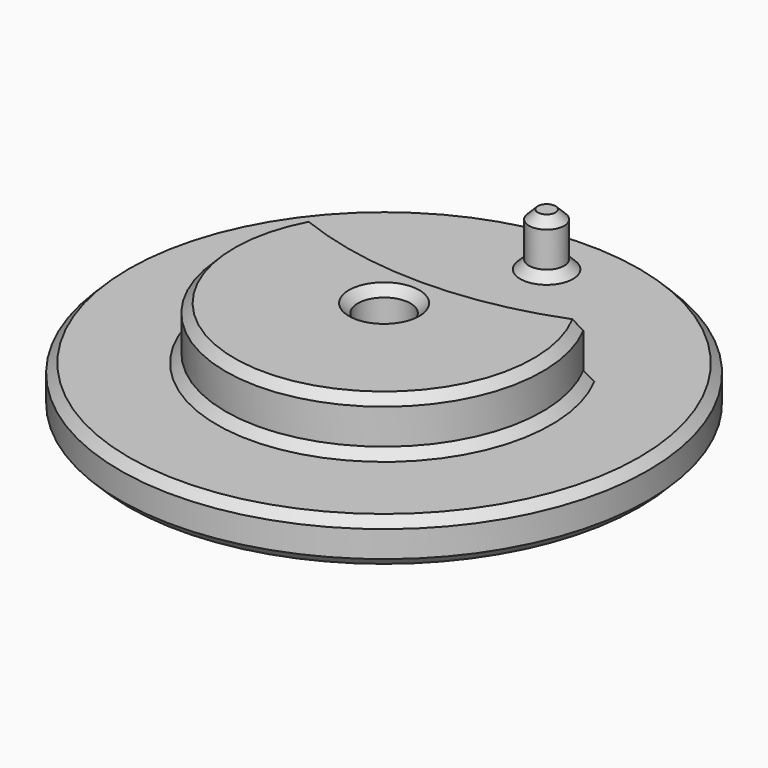
from build123d import *

# Parameters (mm, degrees)
SKETCH003_R          = 30
PAD001_DEPTH         = 5
SKETCH004_R          = 2
PAD002_DEPTH         = 6
SKETCH005_R          = 3
POCKET002_DEPTH      = 5.001
POCKET002_DEPTH_BACK = 6.001
CHAMFER002_SIZE      = 1


with BuildPart() as part:
    # Sketch003 → Pad001 (new body)
    with BuildSketch(Plane.XY):
        Circle(SKETCH003_R)
    extrude(amount=PAD001_DEPTH)

    # Sketch004 (on Face3 of Pad001) → Pad002 (join)
    with BuildSketch(Plane.XY.offset(5)):
        with Locations((0, 23.0943)):
            Circle(SKETCH004_R)
        with BuildLine():
            ThreePointArc((-15.422876, 9.280888), (0, -18), (15.422876, 9.280888))
            ThreePointArc((-15.422876, 9.280888), (0, 6.188), (15.422876, 9.280888))
        make_face()
    extrude(amount=PAD002_DEPTH)

    # Sketch005 (on Face3 of Pad002) → Pocket002 (cut, two sides)
    with BuildSketch(Plane.XY.offset(5)) as pocket002_sk:
        Circle(SKETCH005_R)
    extrude(amount=-POCKET002_DEPTH, mode=Mode.SUBTRACT)
    extrude(pocket002_sk.sketch, amount=POCKET002_DEPTH_BACK, mode=Mode.SUBTRACT)

    # Chamfer002
    chamfer002_edges = [part.edges().sort_by_distance(p)[0] for p in [
        (30, 0, 2.5),
        (-30, 0, 0),
        (-30, 0, 5),
        (-3, 0, 0),
        (0, -18, 5),
        (0, 6.188, 5),
        (-2, 23.0943, 5),
        (-3, 0, 11),
        (3, 0, 5.5),
        (-15.422876, 9.280888, 8),
        (15.422876, 9.280888, 8),
        (0, -18, 11),
        (0, 6.188, 11),
        (2, 23.0943, 8),
        (-2, 23.0943, 11),
    ]]
    chamfer(chamfer002_edges, length=CHAMFER002_SIZE)


solid = part.part
